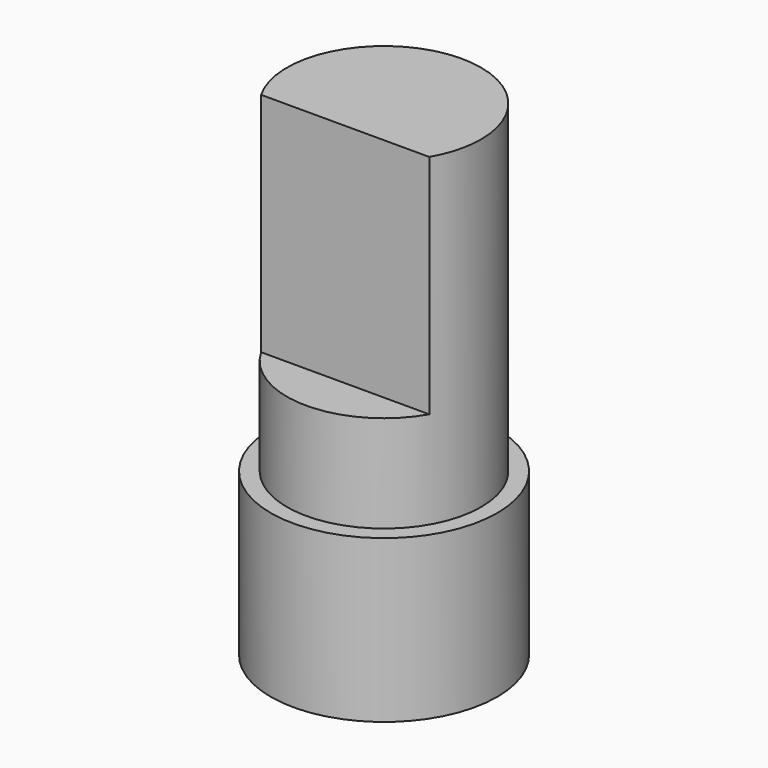
from build123d import *

# Parameters (mm, degrees)
SKETCH_R     = 3.5
PAD_DEPTH    = 5
SKETCH002_R  = 3
PAD001_DEPTH = 15
SKETCH003_W  = 6
SKETCH003_H  = 1.5
POCKET_DEPTH = 7


with BuildPart() as part:
    # Sketch → Pad (new body)
    with BuildSketch(Plane.XY):
        Circle(SKETCH_R)
    extrude(amount=PAD_DEPTH)

    # Sketch002 → Pad001 (join)
    with BuildSketch(Plane.XY):
        Circle(SKETCH002_R)
    extrude(amount=PAD001_DEPTH)

    # Sketch003 (on DatumPlane) → Pocket (cut)
    with BuildSketch(Plane.XY.offset(15)):
        with Locations((0, -2.25)):
            Rectangle(SKETCH003_W, SKETCH003_H)
    extrude(amount=-POCKET_DEPTH, mode=Mode.SUBTRACT)


solid = part.part
